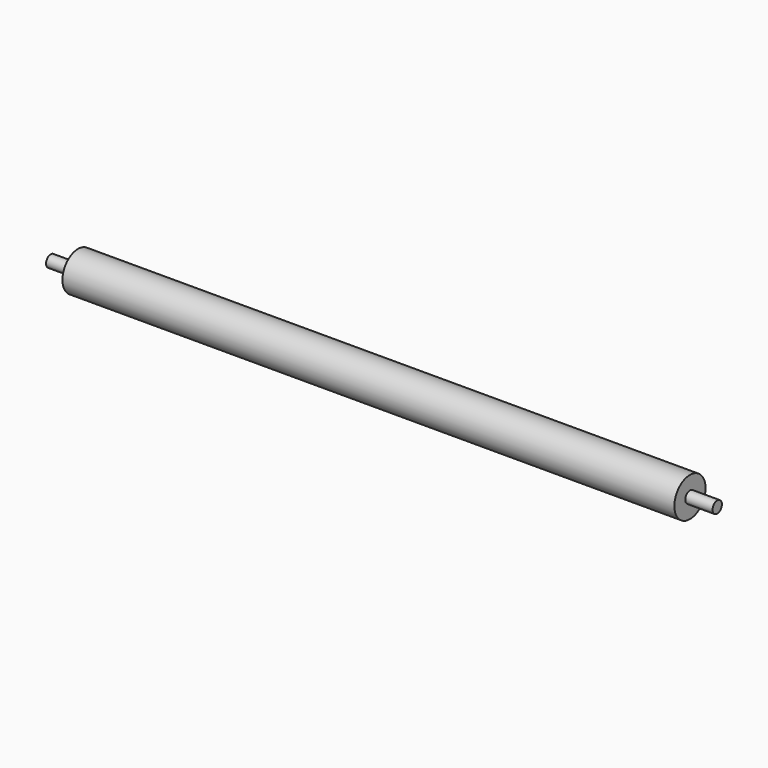
from build123d import *

# Parameters (mm, degrees)
F0_R     = 5
F1_DEPTH = 78.5
F2_R     = 1.5
F3_DEPTH = 7


with BuildPart() as f1:
    # F0 (on Right) → F1 (new body)
    with BuildSketch(Plane.YZ):
        Circle(F0_R)
        Circle(F0_R)
    extrude(amount=F1_DEPTH)

    # F2 (on face) → F3 (join)
    with BuildSketch(Plane.YZ.offset(78.5)):
        Circle(F2_R)
    extrude(amount=F3_DEPTH)

    # F4: F1 across plane


with BuildPart() as f1_1:
    add(f1.part)
    add(f1.part.mirror(Plane.YZ))


solid = f1_1.part
